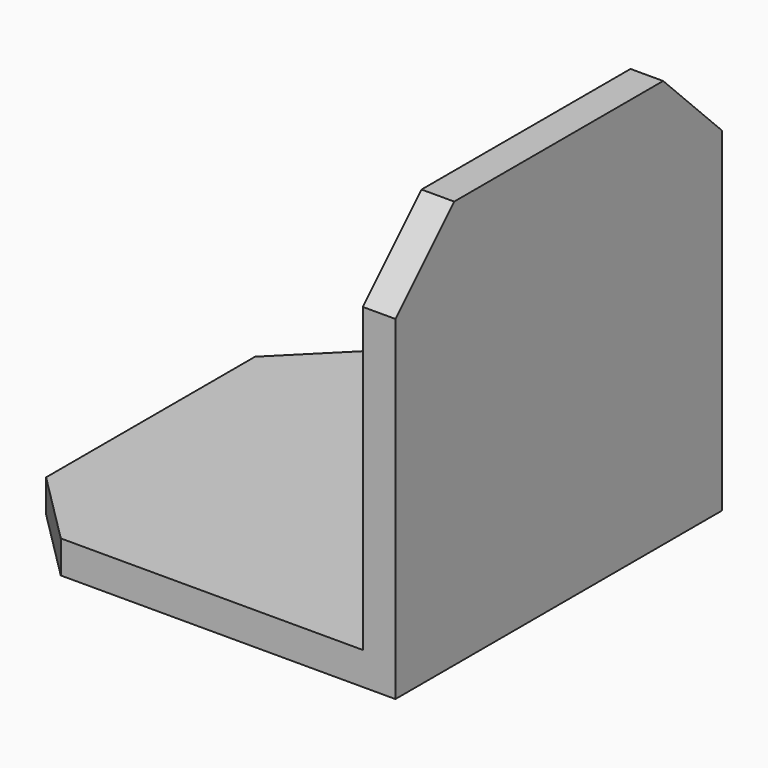
from build123d import *

# Parameters (mm, degrees)
F0_W     = 31.75
F0_H     = 31.75
F1_DEPTH = 31.75
F2_W     = 29.21
F2_H     = 29.21
F3_DEPTH = 31.75
F4_SIZE  = 5.715


with BuildPart() as f1:
    # F0 (on Top) → F1 (new body)
    with BuildSketch(Plane.XY):
        with Locations((15.875, 15.875)):
            Rectangle(F0_W, F0_H)
    extrude(amount=F1_DEPTH)

    # F2 (on face) → F3 (cut, through all)
    with BuildSketch(Plane(origin=(0, 31.75, 0), x_dir=(-1, 0, 0), z_dir=(0, 1, 0))):
        with Locations((-14.605, 17.145)):
            Rectangle(F2_W, F2_H)
    extrude(amount=-F3_DEPTH, mode=Mode.SUBTRACT)

    # F4
    f4_edges = [f1.edges().sort_by_distance(p)[0] for p in [
        (30.48, 31.75, 31.75),
        (30.48, 0, 31.75),
        (0, 0, 1.27),
        (0, 31.75, 1.27),
    ]]
    chamfer(f4_edges, length=F4_SIZE)


solid = f1.part
